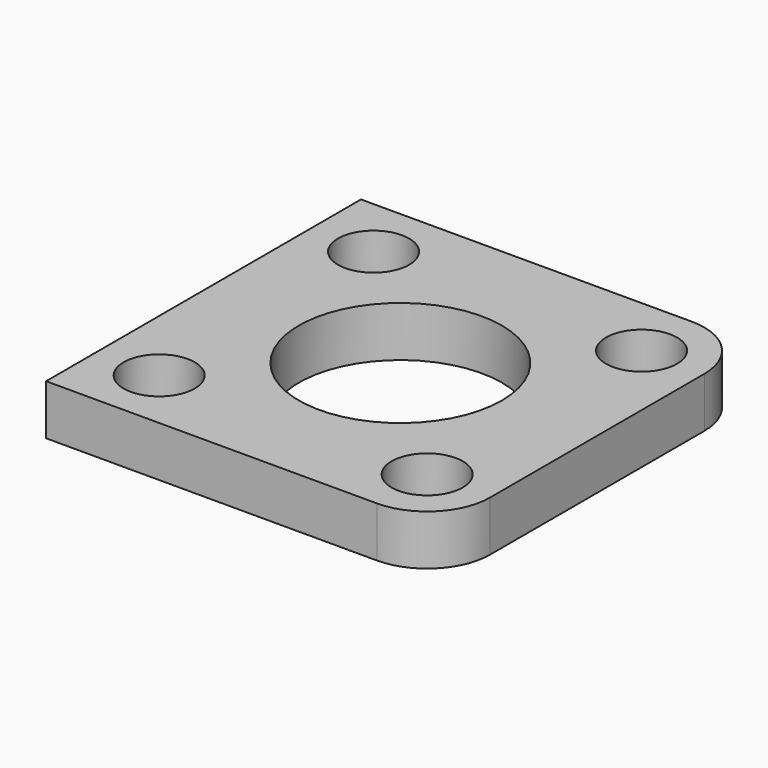
from build123d import *

# Parameters (mm, degrees)
F0_W     = 24.86528
F0_H     = 24.86528
F0_R     = 2.2479
F0_R_2   = 6.4135
F1_DEPTH = 3.175
F2_R     = 3.96875


with BuildPart() as f1:
    # F0 (on Top) → F1 (new body)
    with BuildSketch(Plane.XY):
        Rectangle(F0_W, F0_H)
        with Locations((-8.46389, -8.46389)):
            Circle(F0_R, mode=Mode.SUBTRACT)
        with Locations((8.46389, -8.46389)):
            Circle(F0_R, mode=Mode.SUBTRACT)
        with Locations((-8.46389, 8.46389)):
            Circle(F0_R, mode=Mode.SUBTRACT)
        Circle(F0_R_2, mode=Mode.SUBTRACT)
        with Locations((8.46389, 8.46389)):
            Circle(F0_R, mode=Mode.SUBTRACT)
    extrude(amount=F1_DEPTH)

    # F2
    f2_edges = [f1.edges().sort_by_distance(p)[0] for p in [
        (12.43264, -12.43264, 1.5875),
        (12.43264, 12.43264, 1.5875),
    ]]
    fillet(f2_edges, radius=F2_R)


solid = f1.part
